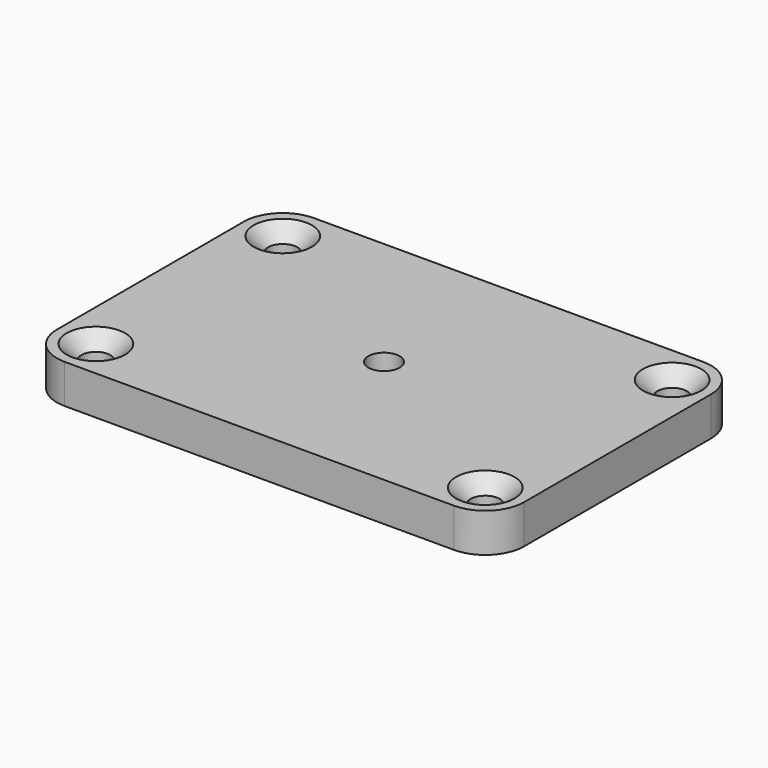
from build123d import *

# Parameters (mm, degrees)
F1_W           = 76.2
F1_H           = 50.8
F2_DEPTH       = 6.35
F3_R           = 6.35
F5_D           = 4.7625
F5_CSINK_D     = 9.525
F5_CSINK_ANGLE = 90
F6_D           = 5.1054


with BuildPart() as f2:
    # F1 (on Top) → F2 (new body)
    with BuildSketch(Plane.XY):
        Rectangle(F1_W, F1_H)
    extrude(amount=F2_DEPTH)

    # F3
    f3_edges = [f2.edges().sort_by_distance(p)[0] for p in [
        (-38.1, -25.4, 3.175),
        (38.1, -25.4, 3.175),
        (38.1, 25.4, 3.175),
        (-38.1, 25.4, 3.175),
    ]]
    fillet(f3_edges, radius=F3_R)

    # F5 (through all)
    with Locations(Plane.XY.offset(6.35)):
        with Locations((-31.75, 19.05), (-31.75, -19.05), (31.75, -19.05), (31.75, 19.05)):
            CounterSinkHole(F5_D / 2, F5_CSINK_D / 2, counter_sink_angle=F5_CSINK_ANGLE)

    # F6 (through all)
    with Locations(Plane(origin=(0, 0, 0), x_dir=(1, 0, 0), z_dir=(0, 0, -1))):
        with Locations((0, 0)):
            Hole(F6_D / 2)


solid = f2.part
